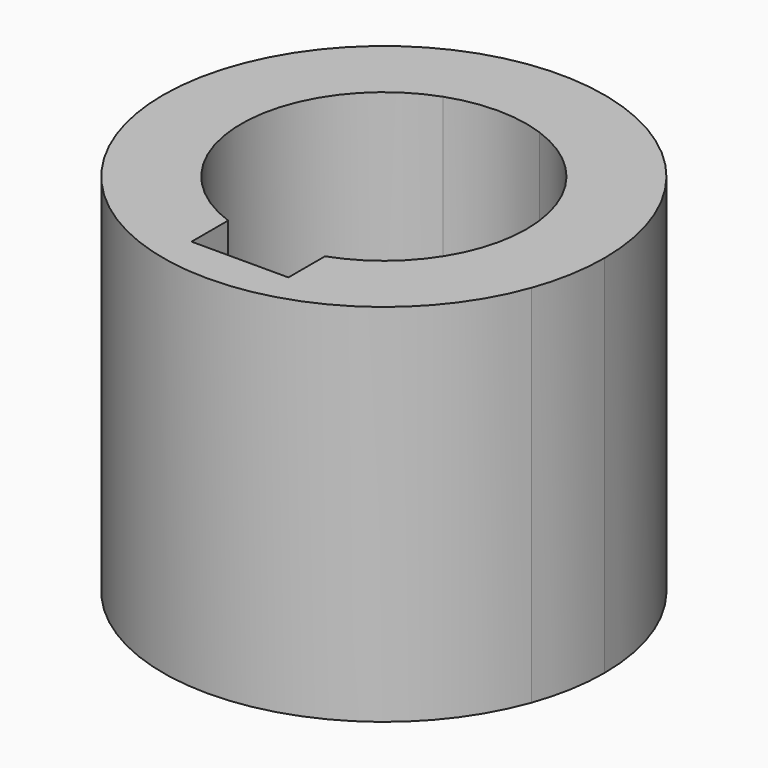
from build123d import *

# Parameters (mm, degrees)
F1_DEPTH = 40.2336


with BuildPart() as f1:
    # F0 (on Top) → F1 (new body)
    with BuildSketch(Plane.XY):
        with BuildLine():
            Line((22.8565262533, -8.2742576596), (24.3081083629, 0))
            ThreePointArc((24.3081083629, 0), (0, 24.3081083629), (-24.3081083629, 0))
            Line((-24.3081083629, 0), (-22.8565262533, -8.2742576596))
            ThreePointArc((-22.8565262533, -8.2742576596), (0, -24.3081083629), (22.8565262533, -8.2742576596))
        make_face()
        with BuildLine():
            ThreePointArc((5.3339996375, 14.7757261988), (12.8562358297, 9.0272275437), (15.7090304232, 0))
            ThreePointArc((15.7090304232, 0), (12.8562358297, -9.0272275437), (5.3339996375, -14.7757261988))
            Line((5.3339996375, -14.7757261988), (5.3339996375, -19.8119990528))
            Line((5.3339996375, -19.8119990528), (-5.3339996375, -19.8119990528))
            Line((-5.3339996375, -19.8119990528), (-5.3339996375, -14.7757261988))
            ThreePointArc((-5.3339996375, -14.7757261988), (-15.7090304232, 0), (-5.3339996375, 14.7757261988))
            Line((-5.3339996375, 14.7757261988), (-5.3339996375, 19.8119990528))
            Line((-5.3339996375, 19.8119990528), (5.3339996375, 19.8119990528))
            Line((5.3339996375, 19.8119990528), (5.3339996375, 14.7757261988))
        make_face(mode=Mode.SUBTRACT)
        with BuildLine():
            ThreePointArc((-5.3339996375, 14.7757261988), (0, 15.7090304232), (5.3339996375, 14.7757261988))
            Line((5.3339996375, 14.7757261988), (5.3339996375, 19.8119990528))
            Line((5.3339996375, 19.8119990528), (-5.3339996375, 19.8119990528))
            Line((-5.3339996375, 19.8119990528), (-5.3339996375, 14.7757261988))
        make_face()
        with BuildLine():
            ThreePointArc((22.8565262533, -8.2742576596), (23.9424627926, -4.2003104182), (24.3081083629, 0))
            Line((24.3081083629, 0), (22.8565262533, -8.2742576596))
        make_face()
        with BuildLine():
            Line((-22.8565262533, -8.2742576596), (-24.3081083629, 0))
            ThreePointArc((-24.3081083629, 0), (-23.9424627926, -4.2003104182), (-22.8565262533, -8.2742576596))
        make_face()
    extrude(amount=F1_DEPTH)


solid = f1.part
